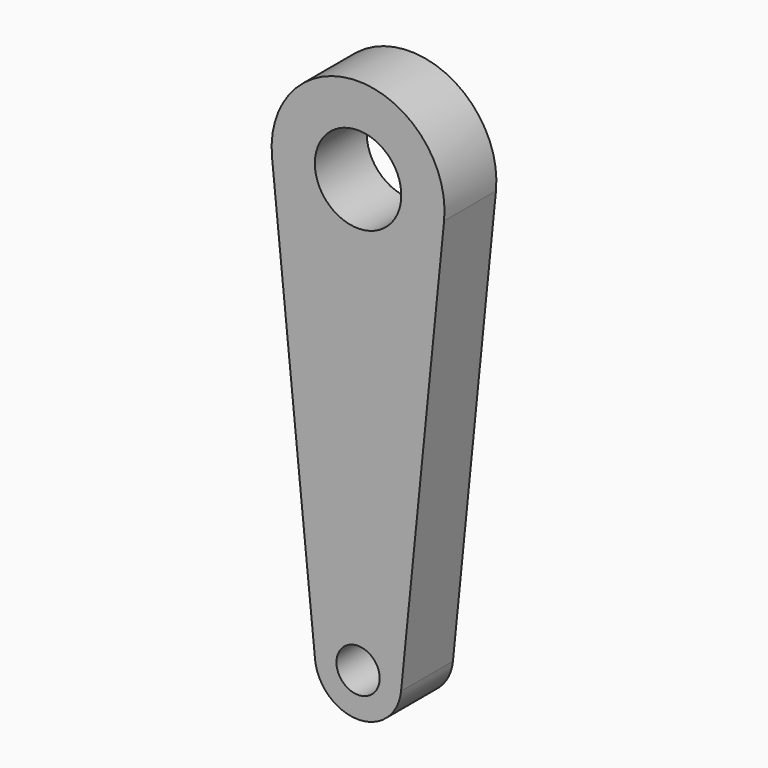
from build123d import *

# Parameters (mm, degrees)
F1_DEPTH = 7.5
F3_D     = 20
F4_D     = 10


with BuildPart() as f1:
    # F0 (on Front) → F1 (new body, symmetric)
    with BuildSketch(Plane.XZ):
        with BuildLine():
            Line((9.9498743711, -101), (19.8997487421, -2))
            ThreePointArc((19.8997487421, -2), (0, 20), (-19.8997487421, -2))
            Line((-19.8997487421, -2), (-9.9498743711, -101))
            ThreePointArc((-9.9498743711, -101), (0, -110), (9.9498743711, -101))
        make_face()
    extrude(amount=F1_DEPTH, both=True)

    # F3 (through all)
    with Locations(Plane.XZ.offset(7.5)):
        with Locations((0, 0)):
            Hole(F3_D / 2)

    # F4 (through all)
    with Locations(Plane.XZ.offset(7.5)):
        with Locations((0, -100)):
            Hole(F4_D / 2)


solid = f1.part
